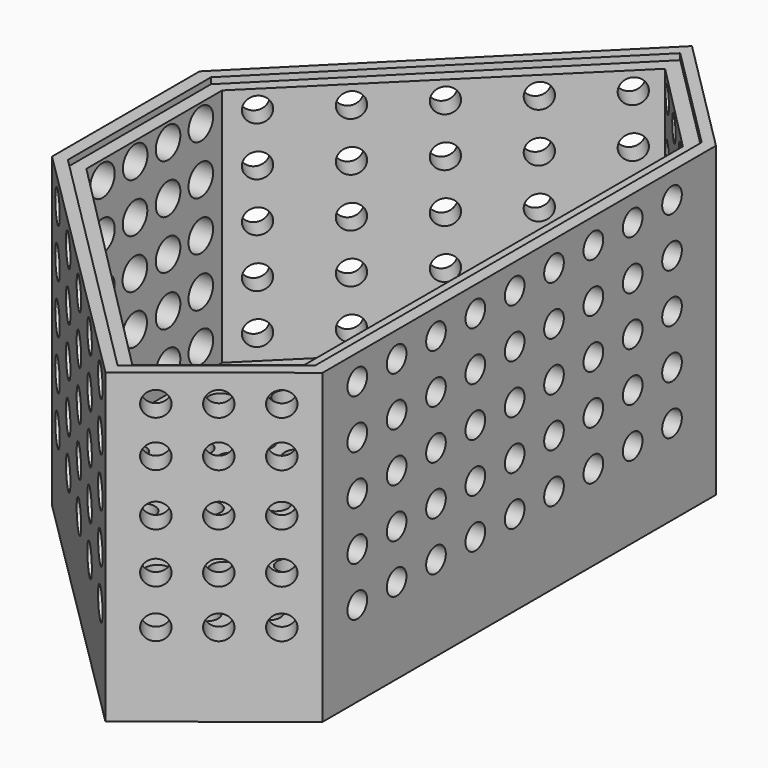
from build123d import *

# Parameters (mm, degrees)
F1_DEPTH  = 25
F4_DEPTH  = 20
F6_D      = 2
F6_DEPTH  = 12
F8_D      = 2
F8_DEPTH  = 4
F10_D     = 2
F10_DEPTH = 4
F12_D     = 2.5
F12_DEPTH = 4
F14_D     = 2
F14_DEPTH = 4
F16_D     = 2.5
F16_DEPTH = 4
F17_DEPTH = 0.5
F19_D     = 2
F19_DEPTH = 8


with BuildPart() as f1:
    # F0 (on Top) → F1 (new body)
    with BuildSketch(Plane.XY):
        Polygon((10.6, 7.5), (10.6, 0), (10.6, -7.5), (31.807175, -28.582043), (42.6, -20), (42.6, 0), (42.6, 20), (32.85, 29.75), align=None)
    extrude(amount=F1_DEPTH)

    # F3 (on face) → F4 (cut)
    with BuildSketch(Plane.XY.offset(25)):
        Polygon((12.756864, 7.100765), (12.756864, 0), (12.756864, -6.707647), (31.893149, -25.95694), (40.425827, -19.163072), (40.425827, 0), (40.425827, 19.355049), (32.864422, 26.99683), align=None)
    extrude(amount=-F4_DEPTH, mode=Mode.SUBTRACT)

    # F6
    with Locations(Plane.YZ.offset(42.6)):
        with Locations((-16.465299, 22.935874), (-12.465299, 22.935874), (-8.465299, 22.935874), (-4.465299, 22.935874), (-0.465299, 22.935874), (3.534701, 22.935874), (7.534701, 22.935874), (11.534701, 22.935874), (15.534701, 22.935874), (-16.465299, 18.935874), (-12.465299, 18.935874), (-8.465299, 18.935874), (-4.465299, 18.935874), (-0.465299, 18.935874), (3.534701, 18.935874), (7.534701, 18.935874), (11.534701, 18.935874), (15.534701, 18.935874), (-16.465299, 14.935874), (-12.465299, 14.935874), (-8.465299, 14.935874), (-0.465299, 14.935874), (3.534701, 14.935874), (7.534701, 14.935874), (11.534701, 14.935874), (-4.465299, 14.935874), (15.534701, 14.935874), (-16.465299, 10.935874), (-12.465299, 10.935874), (-8.465299, 10.935874), (-4.465299, 10.935874), (-0.465299, 10.935874), (3.534701, 10.935874), (7.534701, 10.935874), (15.534701, 10.935874), (11.534701, 10.935874), (-16.465299, 6.935874), (-12.465299, 6.961667), (-8.465299, 6.935874), (-4.465299, 6.935874), (-0.465299, 6.935874), (3.534701, 6.935874), (11.534701, 6.935874), (7.534701, 6.935874), (15.534701, 6.935874)):
            Hole(F6_D / 2, depth=F6_DEPTH)

    # F8
    with Locations(Plane(origin=(26.24452, -33.005254, 0), x_dir=(0.782713, 0.622383, 0), z_dir=(0.622383, -0.782713, 0))):
        with Locations((10.306893, 22.760924), (14.306893, 22.760924), (18.306893, 22.760924), (18.306893, 19.006709), (14.306893, 19.006709), (10.306893, 19.006709), (10.306893, 14.760924), (14.306893, 14.760924), (18.306893, 14.760924), (10.306893, 10.672343), (14.306893, 10.672343), (18.306893, 10.672343), (14.306893, 6.760924), (18.306893, 6.760924), (10.306893, 6.760924)):
            Hole(F8_D / 2, depth=F8_DEPTH)

    # F10
    with Locations(Plane(origin=(31.3, 31.3, 0), x_dir=(-0.707107, 0.707107, 0), z_dir=(0.707107, 0.707107, 0))):
        with Locations((-13.480613, 23), (-9.480613, 23), (-5.480613, 23), (-9.480613, 19), (-5.480613, 19), (-13.480613, 19), (-13.480613, 15), (-9.480613, 15), (-5.480613, 15), (-13.480613, 11), (-9.480613, 11), (-5.480613, 11), (-13.480613, 7), (-5.480613, 7), (-9.480613, 7)):
            Hole(F10_D / 2, depth=F10_DEPTH)

    # F12
    with Locations(Plane(origin=(1.518701, 1.527715, 0), x_dir=(0.709196, -0.705011, 0), z_dir=(-0.705011, -0.709196, 0))):
        with Locations((15.841449, 23), (21.841449, 23), (27.841449, 23), (33.841449, 23), (39.841449, 23), (15.841449, 19), (21.841449, 19), (27.841449, 19), (33.841449, 19), (39.841449, 19), (15.841449, 15), (21.841449, 15), (27.841449, 15), (33.841449, 15), (39.841449, 15), (15.841449, 11), (21.841449, 11), (27.841449, 11), (33.841449, 11), (39.841449, 11), (15.841449, 7), (21.841449, 7), (27.841449, 7), (33.841449, 7), (39.841449, 7)):
            Hole(F12_D / 2, depth=F12_DEPTH)

    # F14
    with Locations(Plane(origin=(1.55, -1.55, 0), x_dir=(-0.707107, -0.707107, 0), z_dir=(-0.707107, 0.707107, 0))):
        with Locations((-40.298633, 23), (-34.298633, 23), (-28.298633, 23), (-22.298633, 23), (-16.298633, 23), (-40.298633, 19), (-34.298633, 19), (-28.298633, 19), (-22.298633, 19), (-16.298633, 19), (-40.298633, 15), (-28.298633, 15), (-34.298633, 15), (-22.298633, 15), (-40.298633, 11), (-34.298633, 11), (-28.298633, 11), (-16.298633, 15), (-22.298633, 11), (-16.298633, 11), (-40.298633, 7), (-28.298633, 7), (-34.298633, 7), (-22.298633, 7), (-16.298633, 7)):
            Hole(F14_D / 2, depth=F14_DEPTH)

    # F16
    with Locations(Plane(origin=(10.6, 0, 0), x_dir=(0, -1, 0), z_dir=(-1, 0, 0))):
        with Locations((-4.927863, 23), (-1.597863, 23), (1.742137, 23), (5.072137, 23), (-4.927863, 18.983093), (1.760179, 18.99821), (5.072137, 19.028178), (-1.597863, 18.998106), (-4.927863, 14.966186), (-1.597863, 15), (1.778221, 14.996421), (5.072137, 15.011271), (-4.927863, 10.947845), (-1.597863, 10.947845), (1.796247, 10.99821), (5.072137, 10.947845), (-4.927863, 7), (-1.597863, 7), (1.814273, 7), (5.072137, 7)):
            Hole(F16_D / 2, depth=F16_DEPTH)

    # F2 (on face) → F17 (cut)
    with BuildSketch(Plane.XY.offset(25)):
        Polygon((11.672573, 7.315534), (11.672573, 0), (11.672573, -7.23249), (31.807175, -27.346945), (41.610186, -19.551964), (41.610186, 0), (41.610186, 19.788326), (32.877776, 28.520736), align=None)
    extrude(amount=-F17_DEPTH, mode=Mode.SUBTRACT)

    # F19
    with Locations(Plane.XY.offset(5)):
        with Locations((30.543773, 20.539667), (33.543773, 20.539667), (36.543773, 20.539667), (27.543773, 17.961476), (30.543773, 17.961476), (33.543773, 17.961476), (36.543773, 17.961476), (24.543773, 14.961476), (27.543773, 15.047495), (30.568277, 15.010711), (33.5478, 15.047495), (36.543773, 14.961476), (21.543773, 11.961476), (24.543773, 11.961476), (27.543773, 11.992666), (30.641846, 11.994406), (33.5478, 12.03119), (36.543773, 11.961476), (18.933784, 8.961476), (21.543773, 8.99435), (24.554821, 9.063806), (27.555197, 9.032874), (30.543773, 8.99435), (33.624767, 8.961476), (36.543773, 8.961476), (15.979916, 5.961476), (18.933784, 5.961476), (21.543773, 5.961476), (24.57279, 5.961476), (27.543773, 5.961476), (30.543773, 5.961476), (33.543773, 5.961476), (36.543773, 5.961476), (15.946652, 2.980738), (21.543773, 2.980738), (18.933784, 2.980738), (24.57279, 2.977506), (27.543773, 2.980738), (30.543773, 2.980738), (33.543773, 2.980738), (36.543773, 2.980738), (15.979916, 0), (18.933784, 0), (21.543773, 0), (24.543773, 0), (27.543773, 0), (30.543773, 0), (33.543773, 0), (36.543773, 0), (18.933784, -2.980738), (15.946652, -2.980738), (21.543773, -2.980738), (24.57279, -2.977506), (27.543773, -2.980738), (30.543773, -2.980738), (33.543773, -2.980738), (15.979916, -5.961476), (18.933784, -5.961476), (36.543773, -3), (21.543773, -5.961476), (24.57279, -5.961476), (27.543773, -5.961476), (30.543773, -5.961476), (33.543773, -5.961476), (36.543773, -6), (18.933784, -8.961476), (21.543773, -8.99435), (24.554821, -9.063806), (27.555197, -9.032874), (33.624767, -8.961476), (30.543773, -8.99435), (36.543773, -8.961476), (21.543773, -11.961476), (24.543773, -11.961476), (27.543773, -11.992666), (30.641846, -11.994406), (33.5478, -12.03119), (36.543773, -11.961476), (24.543773, -14.961476), (27.543773, -15.047495), (30.568277, -15.010711), (33.5478, -15.047495), (36.543773, -14.961476), (27.543773, -17.961476), (30.543773, -17.961476), (33.543773, -17.961476), (36.543773, -17.961476), (30.543773, -20.539667), (33.543773, -20.539667), (36.543773, -20.539667)):
            Hole(F19_D / 2, depth=F19_DEPTH)


solid = f1.part
